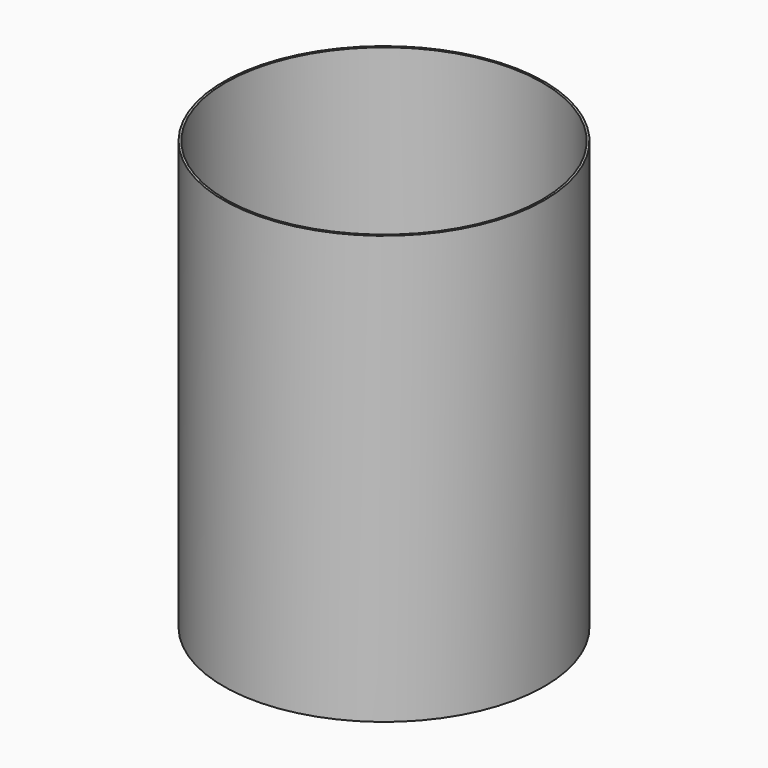
from build123d import *

# Parameters (mm, degrees)
F0_R     = 75
F2_DEPTH = 200
F3_R     = 74
F4_DEPTH = 200
F5_DEPTH = 200


with BuildPart() as f2:
    # F0 (on Top) → F2 (new body)
    with BuildSketch(Plane.XY):
        Circle(F0_R)
    extrude(amount=F2_DEPTH)

    # F3 (on face) → F4 (cut)
    with BuildSketch(Plane.XY.offset(200)):
        Circle(F3_R)
    extrude(amount=-F4_DEPTH, mode=Mode.SUBTRACT)

    # F1 (on face) → F5 (cut)
    with BuildSketch(Plane.XY):
        with BuildLine():
            ThreePointArc((15.375163, 73.407114), (0.373019, 74.999072), (-14.644218, 73.55642))
            Line((-14.644218, 73.55642), (-14.644218, 72.327003))
            Line((-14.644218, 72.327003), (15.387964, 72.327003))
            Line((15.387964, 72.327003), (15.375163, 73.407114))
        make_face()
    extrude(amount=-F5_DEPTH, mode=Mode.SUBTRACT)


solid = f2.part
